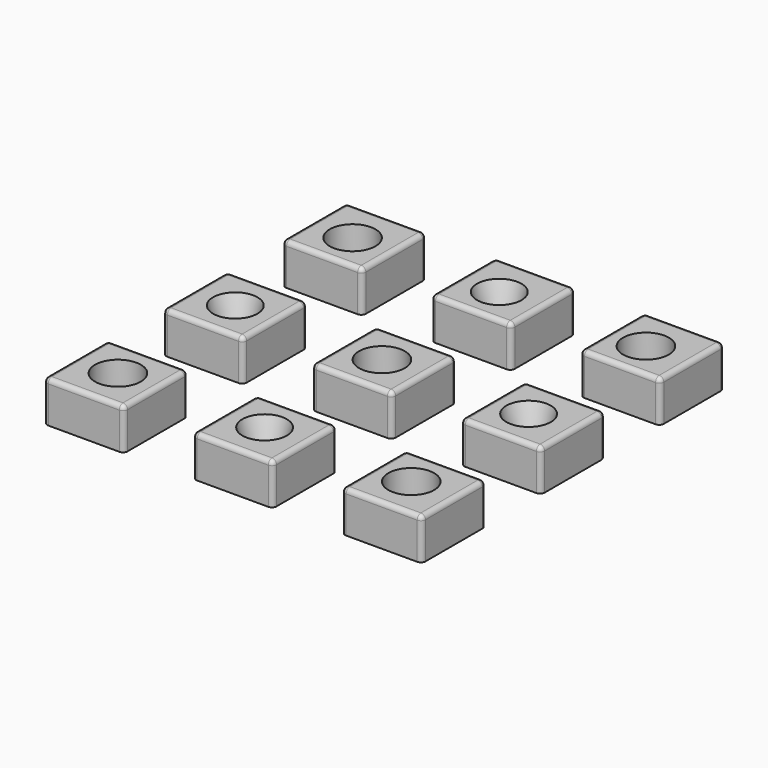
from build123d import *

# Parameters (mm, degrees)
CYLINDER001_R     = 10
CYLINDER001_DEPTH = 20
CYLINDER_R        = 10
CYLINDER_DEPTH    = 15
ARRAY003_X_COUNT  = 2
ARRAY003_X_PITCH  = 128
ARRAY003_Y_COUNT  = 2
ARRAY003_Y_PITCH  = 128
CYLINDER003_R     = 10
CYLINDER003_DEPTH = 18
CYLINDER002_R     = 10
CYLINDER002_DEPTH = 18
ARRAY004_X_COUNT  = 2
ARRAY004_X_PITCH  = 128
ARRAY004_Y_COUNT  = 2
ARRAY004_Y_PITCH  = 128
ARRAY001_X_COUNT  = 3
ARRAY001_X_PITCH  = 64
ARRAY001_Y_COUNT  = 3
ARRAY001_Y_PITCH  = 64
BOX002_W          = 35
BOX002_H          = 35
BOX002_DEPTH      = 18
FILLET001_R       = 2
ARRAY_X_COUNT     = 3
ARRAY_X_PITCH     = 65
ARRAY_Y_COUNT     = 3
ARRAY_Y_PITCH     = 65


with BuildPart() as obj1:
    # Cylinder001 → Cylinder001 (new body)
    with BuildSketch(Plane(origin=(80, 80, 2), x_dir=(1, 0, 0), z_dir=(0, 0, 1))):
        Circle(CYLINDER001_R)
    extrude(amount=CYLINDER001_DEPTH)


with BuildPart() as obj2:
    # Cylinder → Cylinder (new body)
    with BuildSketch(Plane(origin=(16, 16, 4), x_dir=(1, 0, 0), z_dir=(0, 0, 1))):
        Circle(CYLINDER_R)
    extrude(amount=CYLINDER_DEPTH)

    # Array003 X: obj2_2


with BuildPart() as obj2_1:
    add(obj2.part)
    with Locations(*[(i * ARRAY003_X_PITCH, 0, 0) for i in range(1, ARRAY003_X_COUNT)]):
        add(obj2.part)

    # Array003 Y: obj2_2


with BuildPart() as obj2_2:
    add(obj2_1.part)
    with Locations(*[(0, i * ARRAY003_Y_PITCH, 0) for i in range(1, ARRAY003_Y_COUNT)]):
        add(obj2_1.part)

    # Fusion: union obj1
    add(obj1.part)


with BuildPart() as obj3:
    # Cylinder003 → Cylinder003 (new body)
    with BuildSketch(Plane(origin=(80, 80, 0), x_dir=(1, 0, 0), z_dir=(0, 0, 1))):
        Circle(CYLINDER003_R)
    extrude(amount=CYLINDER003_DEPTH)


with BuildPart() as obj4:
    # Cylinder002 → Cylinder002 (new body)
    with BuildSketch(Plane(origin=(16, 16, 0), x_dir=(1, 0, 0), z_dir=(0, 0, 1))):
        Circle(CYLINDER002_R)
    extrude(amount=CYLINDER002_DEPTH)

    # Array004 X: obj4_2


with BuildPart() as obj4_1:
    add(obj4.part)
    with Locations(*[(i * ARRAY004_X_PITCH, 0, 0) for i in range(1, ARRAY004_X_COUNT)]):
        add(obj4.part)

    # Array004 Y: obj4_2


with BuildPart() as obj4_2:
    add(obj4_1.part)
    with Locations(*[(0, i * ARRAY004_Y_PITCH, 0) for i in range(1, ARRAY004_Y_COUNT)]):
        add(obj4_1.part)

    # Fusion001: union obj3
    add(obj3.part)


with BuildPart() as sphere:
    # Sphere → Sphere (revolve)
    with BuildSketch(Plane(origin=(0, 0, 36), x_dir=(1, 0, 0), z_dir=(0, -1, 0))):
        with BuildLine():
            ThreePointArc((0, -5), (5, 0), (0, 5))
            Line((0, 5), (0, -5))
        make_face()
    revolve(axis=Axis((0, 0, 36), (0, 0, 1)))


with BuildPart() as obj5:
    # Cone → Cone (revolve)
    with BuildSketch(Plane(origin=(0, 0, 38), x_dir=(1, 0, 0), z_dir=(0, -1, 0))):
        Polygon((0, 0), (7, 0), (10, 10), (0, 10), align=None)
    revolve(axis=Axis((0, 0, 38), (0, 0, 1)))

    # Cut: cut Sphere
    add(sphere.part, mode=Mode.SUBTRACT)


with BuildPart() as obj5_1:
    # Cut placement: moved
    add(obj5.part.moved(Location((16, 16, -29))))

    # Array001 X: obj5_3


with BuildPart() as obj5_2:
    add(obj5_1.part)
    with Locations(*[(i * ARRAY001_X_PITCH, 0, 0) for i in range(1, ARRAY001_X_COUNT)]):
        add(obj5_1.part)

    # Array001 Y: obj5_3


with BuildPart() as obj5_3:
    add(obj5_2.part)
    with Locations(*[(0, i * ARRAY001_Y_PITCH, 0) for i in range(1, ARRAY001_Y_COUNT)]):
        add(obj5_2.part)


with BuildPart() as obj6:
    # Box002 → Box002 (new body)
    with BuildSketch(Plane.XY):
        with Locations((17.5, 17.5)):
            Rectangle(BOX002_W, BOX002_H)
    extrude(amount=BOX002_DEPTH)

    # Fillet001
    fillet001_edges = [obj6.edges().sort_by_distance(p)[0] for p in [
        (0, 0, 9),
        (0, 17.5, 18),
        (0, 35, 9),
        (35, 0, 9),
        (35, 17.5, 18),
        (35, 35, 9),
        (17.5, 0, 18),
        (17.5, 35, 18),
    ]]
    fillet(fillet001_edges, radius=FILLET001_R)


with BuildPart() as obj6_1:
    # Fillet001 placement: moved
    add(obj6.part.moved(Location((-2, -2, 0))))

    # Array X: obj6_3


with BuildPart() as obj6_2:
    add(obj6_1.part)
    with Locations(*[(i * ARRAY_X_PITCH, 0, 0) for i in range(1, ARRAY_X_COUNT)]):
        add(obj6_1.part)

    # Array Y: obj6_3


with BuildPart() as obj6_3:
    add(obj6_2.part)
    with Locations(*[(0, i * ARRAY_Y_PITCH, 0) for i in range(1, ARRAY_Y_COUNT)]):
        add(obj6_2.part)

    # Cut003: cut obj5
    add(obj5_3.part, mode=Mode.SUBTRACT)

    # Fusion002: union obj4
    add(obj4_2.part)

    # Cut004: cut obj2
    add(obj2_2.part, mode=Mode.SUBTRACT)


solid = obj6_3.part
